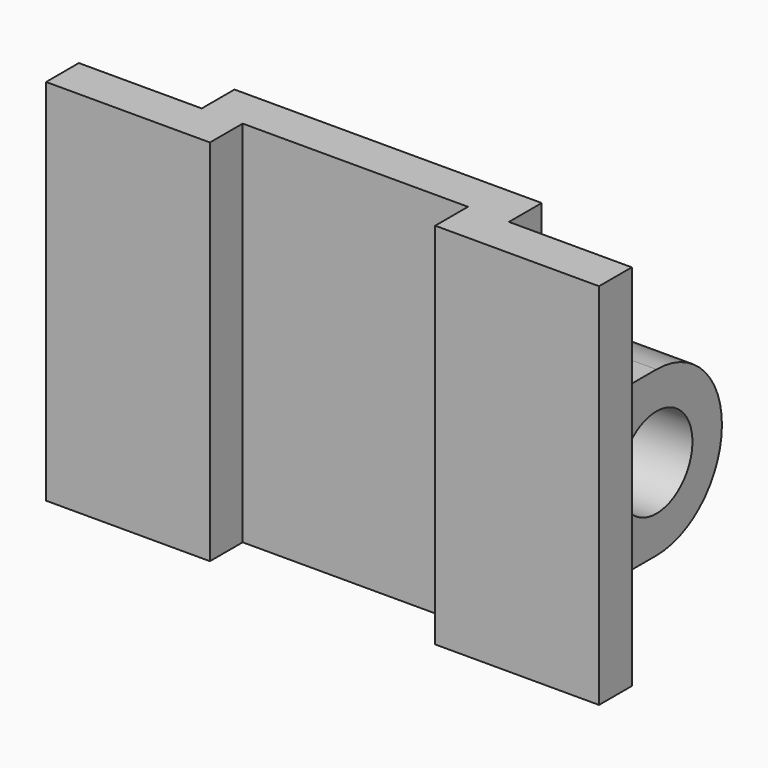
from build123d import *

# Parameters (mm, degrees)
F0_W     = 135
F0_H     = 10
F1_DEPTH = 90
F2_W     = 75
F2_H     = 90
F3_DEPTH = 10
F4_W     = 55
F4_H     = 10
F5_DEPTH = 90.001
F7_DEPTH = 75
F10_D    = 22


with BuildPart() as f1:
    # F0 (on Top) → F1 (new body)
    with BuildSketch(Plane.XY):
        with Locations((67.5, -5)):
            Rectangle(F0_W, F0_H)
    extrude(amount=F1_DEPTH)

    # F2 (on Front) → F3 (join)
    with BuildSketch(Plane.XZ):
        with Locations((67.5, 45)):
            Rectangle(F2_W, F2_H)
    extrude(amount=-F3_DEPTH)

    # F4 (on face) → F5 (cut, through all)
    with BuildSketch(Plane.XY.offset(90)):
        with Locations((67.5, -5)):
            Rectangle(F4_W, F4_H)
    extrude(amount=-F5_DEPTH, mode=Mode.SUBTRACT)

    # F6 (on face) → F7 (join)
    with BuildSketch(Plane.YZ.offset(105)):
        with BuildLine():
            Line((10, 40), (10, 0))
            Line((10, 0), (45, 0))
            ThreePointArc((45, 0), (65, 20), (45, 40))
            Line((45, 40), (10, 40))
        make_face()
    extrude(amount=-F7_DEPTH)

    # F10 (through all)
    with Locations(Plane.YZ.offset(105)):
        with Locations((45, 20)):
            Hole(F10_D / 2)


solid = f1.part
